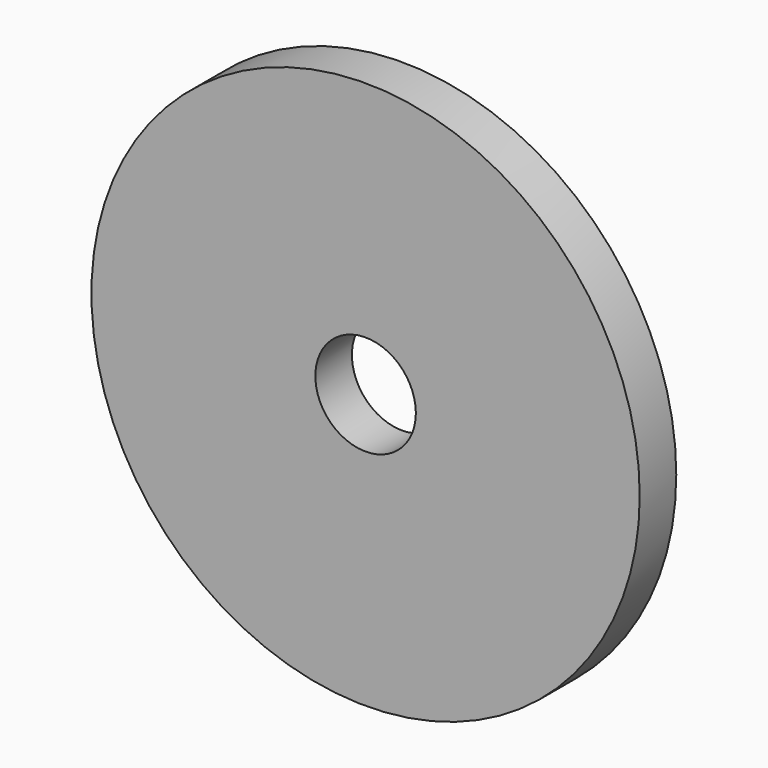
from build123d import *

# Parameters (mm, degrees)
CYLINDER011007_R     = 2.2
CYLINDER011007_DEPTH = 20
CYLINDER011008_R     = 12
CYLINDER011008_DEPTH = 2


with BuildPart() as belt_attach_insert_hole:
    # Cylinder011007 → Cylinder011007 (new body)
    with BuildSketch(Plane.XZ):
        Circle(CYLINDER011007_R)
    extrude(amount=CYLINDER011007_DEPTH)


with BuildPart() as obj1:
    # Cylinder011008 → Cylinder011008 (new body)
    with BuildSketch(Plane.XZ):
        Circle(CYLINDER011008_R)
    extrude(amount=CYLINDER011008_DEPTH)

    # Cut023015009008: cut belt attach insert hole
    add(belt_attach_insert_hole.part, mode=Mode.SUBTRACT)


solid = obj1.part
